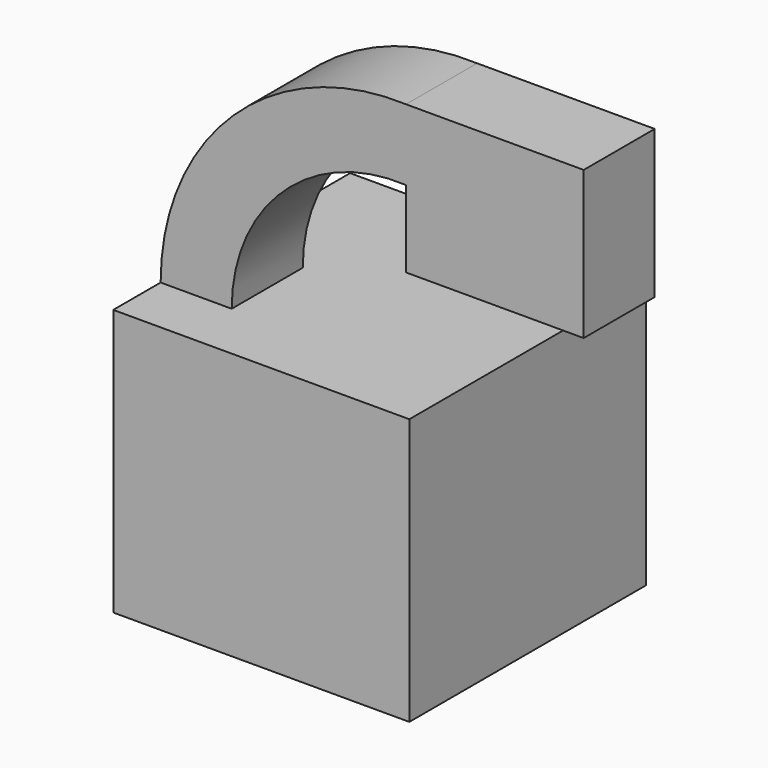
from build123d import *

# Parameters (mm, degrees)
F1_DEPTH  = 25
F2_DEPTH  = 15
F2_FACE_W = 15
F2_FACE_H = 25
F3_DEPTH  = 10


with BuildPart() as f1:
    # F0 (on Front) → F1 (new body, symmetric)
    with BuildSketch(Plane.XZ):
        Polygon((-25, 22.5), (-25, -22.5), (25, -22.5), (25, 22.5), (-13, 22.5), align=None)
    extrude(amount=F1_DEPTH, both=True)

    # F0 (on Front) → F2 (join)
    with BuildSketch(Plane.XZ):
        Polygon((-25, 22.5), (-25, -22.5), (25, -22.5), (25, 22.5), (-13, 22.5), align=None)
        with BuildLine():
            ThreePointArc((16.44358, 62.473942), (-12.769199, 51.29013), (-25, 22.5))
            Line((-25, 22.5), (-13, 22.5))
            ThreePointArc((-13, 22.5), (-4.281853, 42.802959), (16.44358, 50.462762))
            Line((16.44358, 50.462762), (16.44358, 62.473942))
        make_face()
        Polygon((36.44358, 62.473942), (16.44358, 62.473942), (16.44358, 50.462762), (16.44358, 37.473942), (36.44358, 37.473942), align=None)
    extrude(amount=F2_DEPTH)

    # F2_face (on face) → F3 (join)
    with BuildSketch(Plane(origin=(36.44358, -7.5, 49.973942), x_dir=(0, 1, 0), z_dir=(1, 0, 0))):
        Rectangle(F2_FACE_W, F2_FACE_H)
    extrude(amount=F3_DEPTH)


solid = f1.part
